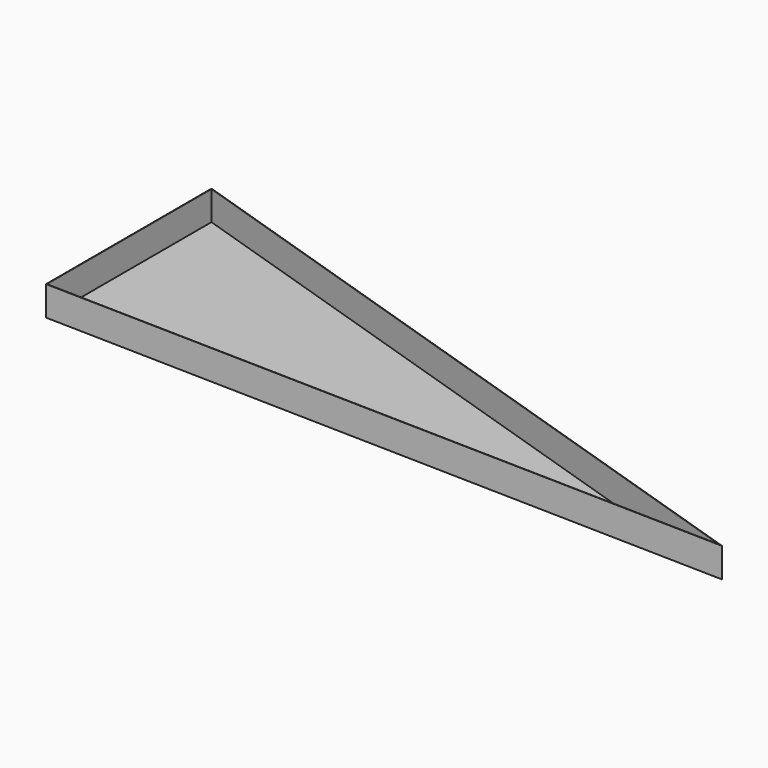
from build123d import *

# Parameters (mm, degrees)
F1_DEPTH = 200
F2_T     = -2.54


with BuildPart() as f1:
    # F0 (on Top) → F1 (new body)
    with BuildSketch(Plane.XY):
        Polygon((2341.767668, 337.476149), (-2320.380307, 1845.579678), (-2320.380307, 445.579678), align=None)
    extrude(amount=F1_DEPTH)

    # F2
    f2_openings = [f1.faces().sort_by_distance(p)[0] for p in [
        (-766.330982, 876.211835, 200),
    ]]
    offset(amount=F2_T, openings=f2_openings)


solid = f1.part
